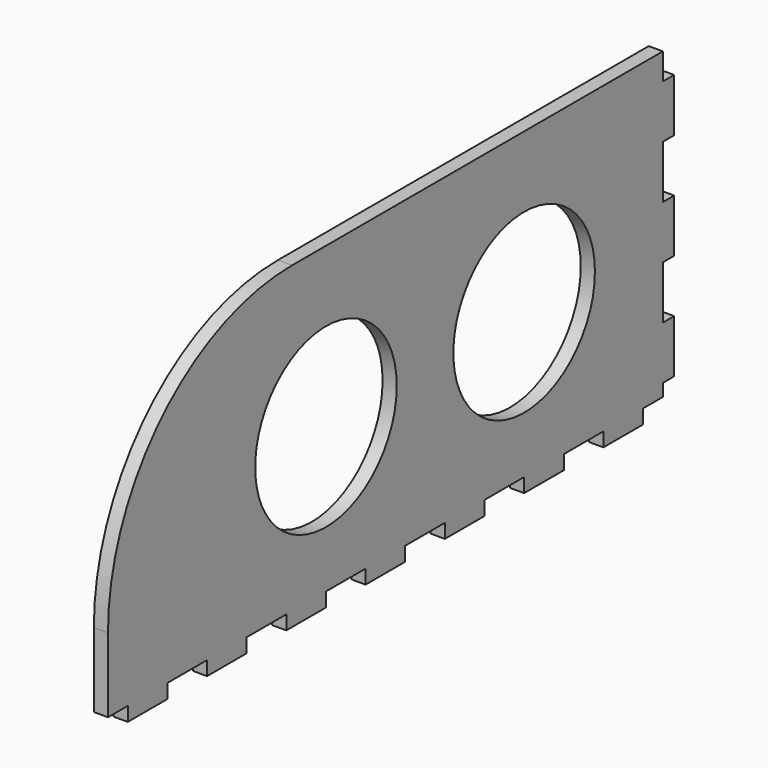
from build123d import *

# Parameters (mm, degrees)
SKETCH072_W     = 200
SKETCH072_H     = 90
PAD036_DEPTH    = 4
SKETCH073_R     = 25
SKETCH073_W     = 7
SKETCH073_H     = 4
SKETCH073_W_2   = 14
SKETCH073_W_3   = 4
SKETCH073_H_2   = 15
SKETCH073_H_3   = 7.5
POCKET032_DEPTH = 4
FILLET003_R     = 65


with BuildPart() as part:
    # Sketch072 → Pad036 (new body)
    with BuildSketch(Plane.YZ):
        Rectangle(SKETCH072_W, SKETCH072_H)
    extrude(amount=PAD036_DEPTH)

    # Sketch073 (on Face6 of Pad036) → Pocket032 (cut)
    with BuildSketch(Plane.YZ.offset(4)):
        with Locations((-23, 0)):
            Circle(SKETCH073_R)
        with Locations((47, 0)):
            Circle(SKETCH073_R)
        with Locations((-96.5, -43)):
            Rectangle(SKETCH073_W, SKETCH073_H)
        with Locations((-72, -43)):
            Rectangle(SKETCH073_W_2, SKETCH073_H)
        with Locations((-44, -43)):
            Rectangle(SKETCH073_W_2, SKETCH073_H)
        with Locations((-16, -43)):
            Rectangle(SKETCH073_W_2, SKETCH073_H)
        with Locations((12, -43)):
            Rectangle(SKETCH073_W_2, SKETCH073_H)
        with Locations((40, -43)):
            Rectangle(SKETCH073_W_2, SKETCH073_H)
        with Locations((68, -43)):
            Rectangle(SKETCH073_W_2, SKETCH073_H)
        with Locations((98, -15)):
            Rectangle(SKETCH073_W_3, SKETCH073_H_2)
        with Locations((98, 15)):
            Rectangle(SKETCH073_W_3, SKETCH073_H_2)
        with Locations((98, 41.25)):
            Rectangle(SKETCH073_W_3, SKETCH073_H_3)
        Polygon((89, -45), (89, -41), (96, -41), (96, -37.5), (100, -37.5), (100, -45), align=None)
    extrude(amount=-POCKET032_DEPTH, mode=Mode.SUBTRACT)

    # Fillet003
    fillet003_edges = [part.edges().sort_by_distance(p)[0] for p in [
        (2, -100, 45),
    ]]
    fillet(fillet003_edges, radius=FILLET003_R)


with BuildPart() as part_1:
    # Body036 placement: moved
    add(part.part.moved(Location((-7, -402, 0))))


solid = part_1.part
